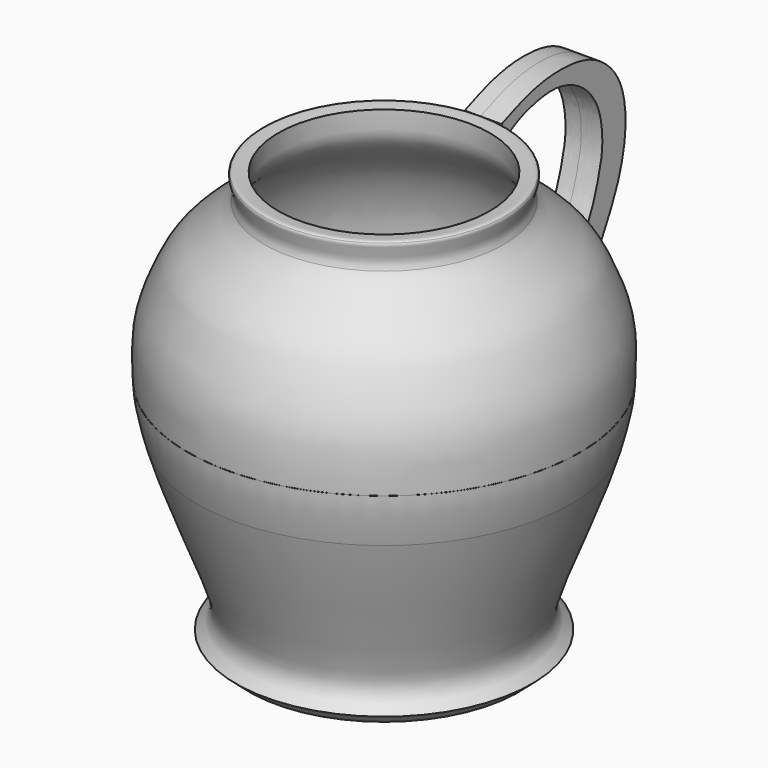
from build123d import *

# Parameters (mm, degrees)
F2_DEPTH      = 10.4
F2_DEPTH_BACK = 7.8


with BuildPart() as f1:
    # F0 (on Right) → F1 (revolve)
    with BuildSketch(Plane.YZ):
        with BuildLine():
            Line((21.0035387427, -78.5015374422), (21.0035387427, -84.5494195819))
            Line((21.0035387427, -84.5494195819), (80.2264660597, -84.5494195819))
            Line((80.2264660597, -84.5494195819), (80.2264660597, -90.012152642))
            Line((80.2264660597, -90.012152642), (87.6965597272, -90.012152642))
            Line((87.6965597272, -90.012152642), (94.082288444, -84.4289362431))
            add(Edge.make_bspline(
                [(94.082288444, -84.4289362431), (92.3738872366, -83.0076980203), (88.9835351958, -80.1872259394), (87.1045959567, -73.5126811581), (90.0131092042, -62.5541332421), (96.2476492207, -47.0073959475), (102.2979406677, -31.0572130313), (107.953769787, -16.7288086893), (111.5604432675, -5.8635248362), (113.2446229458, 0)],
                knots=[0, 0, 0, 0, 0.0379981617, 0.075420174, 0.1249630134, 0.1868680457, 0.2488977672, 0.30745191, 0.3702226859, 0.3702226859, 0.3702226859, 0.3702226859], degree=3))
            add(Edge.make_bspline(
                [(113.2446229458, 0), (114.9033284374, 5.7748356493), (117.212645425, 15.1372170678), (117.8148851259, 21.6430969665), (117.9662718934, 24.0703888431)],
                knots=[0.3702226859, 0.3702226859, 0.3702226859, 0.3702226859, 0.4320440176, 0.4665337581, 0.4665337581, 0.4665337581, 0.4665337581], degree=3))
            add(Edge.make_bspline(
                [(117.9690682879, 24.1153539348), (117.9603680731, 24.0896581148), (117.9631714085, 24.080063716), (117.9662718934, 24.0703888431)],
                knots=[0.9955297408, 0.9955297408, 0.9955297408, 0.9955297408, 1, 1, 1, 1], degree=3))
            add(Edge.make_bspline(
                [(117.9690682879, 24.1153539348), (118.0298730314, 25.0958724695), (118.2804424362, 30.0439409899), (118.7272641145, 41.0847896489), (116.4511449657, 54.4771611951), (110.0055314065, 69.7246057808), (104.2546373672, 79.6448262453), (92.6870466905, 90.1983640908), (84.6358825321, 95.8908917569), (81.104878366, 100.265786402), (80.1873654127, 102.1998003125)],
                knots=[0.4667466766, 0.4667466766, 0.4667466766, 0.4667466766, 0.4806719992, 0.5358659817, 0.5917855739, 0.6518529462, 0.7032103609, 0.7617464682, 0.809488284, 0.8497553004, 0.8497553004, 0.8497553004, 0.8497553004], degree=3))
            add(Edge.make_bspline(
                [(80.1873654127, 102.1998003125), (79.3796441137, 103.9023857884), (78.8174329525, 107.3804000394), (81.5779918846, 113.4314788964), (80.5971100926, 114.5961359143)],
                knots=[0.8497553004, 0.8497553004, 0.8497553004, 0.8497553004, 0.8852038754, 0.9244697332, 0.9244697332, 0.9244697332, 0.9244697332], degree=3))
            add(Edge.make_bspline(
                [(80.5971100926, 114.5961359143), (79.5864107397, 115.7961970268), (75.9939422246, 114.8563985279), (73.2843577862, 114.5961359143)],
                knots=[0.9244697332, 0.9244697332, 0.9244697332, 0.9244697332, 0.9649292232, 0.9649292232, 0.9649292232, 0.9649292232], degree=3))
            add(Edge.make_bspline(
                [(82.515090704, -78.5015374422), (82.163501857, -77.1645000075), (81.3790699561, -74.1814280195), (81.5906530908, -67.4006331631), (84.5185567332, -59.2605208819), (88.70818538, -48.9384919732), (95.4121248716, -32.8980169433), (101.7243507766, -15.2551155999), (109.014058561, 4.2934516881), (112.2321532098, 19.6688466463), (112.416380904, 30.6336732043), (111.5824092223, 45.2341849874), (107.9057424839, 59.3066953152), (101.7693074871, 72.0720531928), (94.5897108488, 81.5917410304), (85.7507044603, 88.5562179254), (77.2173785756, 95.9622408761), (73.0288721391, 103.4471890205), (73.212957295, 110.7111288839), (73.2843577862, 114.5961359143)],
                knots=[0, 0, 0, 0, 0.0353365888, 0.0788407953, 0.1283615695, 0.184994781, 0.2554668977, 0.3299665545, 0.4078796822, 0.4744615379, 0.5302767487, 0.5945903822, 0.6597985892, 0.7234091458, 0.7815571193, 0.8386511187, 0.8952321897, 0.9436865705, 1, 1, 1, 1], degree=3))
            Line((82.515090704, -78.5015374422), (21.0035387427, -78.5015374422))
        make_face()
    revolve(axis=Axis((0, 21.0035387427, 12.487847358), (0, 0, 1)))


with BuildPart() as f2:
    # F0 (on Right) → F2 (new body, two sides)
    with BuildSketch(Plane.YZ) as f2_sk:
        with BuildLine():
            add(Edge.make_bspline(
                [(113.2446229458, 0), (114.7506014429, 2.1897993659), (118.2400935902, 7.2476439439), (128.5094813431, 18.4617054072), (140.5972188595, 34.5300252895), (151.3988202679, 56.3616259867), (154.6204519647, 66.0718702645), (157.0888606341, 76.5659898364), (157.6346150399, 90.3196979879), (153.8342714541, 106.834876278), (138.3937617766, 121.5484903543), (116.9299047736, 124.3161256128), (98.5668402606, 121.7547471985), (86.0301816325, 116.8197984195), (80.5971100926, 114.5961359143)],
                knots=[0, 0, 0, 0, 0.0604918091, 0.1402856542, 0.2359622497, 0.3379077691, 0.4041214418, 0.4705912076, 0.5473712416, 0.6317046276, 0.724664769, 0.8196007437, 0.9095206123, 1, 1, 1, 1], degree=3))
            add(Edge.make_bspline(
                [(80.1873654127, 102.1998003125), (79.3796441137, 103.9023857884), (78.8174329525, 107.3804000394), (81.5779918846, 113.4314788964), (80.5971100926, 114.5961359143)],
                knots=[0.8497553004, 0.8497553004, 0.8497553004, 0.8497553004, 0.8852038754, 0.9244697332, 0.9244697332, 0.9244697332, 0.9244697332], degree=3))
            add(Edge.make_bspline(
                [(80.1873654127, 102.1998003125), (79.735356321, 103.917975547), (79.1712253967, 105.391554634), (88.6290649127, 111.0460970051), (94.9456435351, 113.824319383), (107.4488172259, 116.9622020073), (118.5176109969, 116.5182681696), (129.4621188424, 111.8194729744), (137.2939273423, 103.8835514798), (142.2912686434, 93.7130164507), (143.5028914913, 78.6273489957), (140.6916507591, 67.6675633212), (137.9989486883, 58.3390625774), (132.9251140697, 47.0020606572), (126.0612237215, 36.4050664237), (121.4538975578, 29.4823069737), (118.0638196504, 24.3951992048), (117.9690682879, 24.1153539348)],
                knots=[0, 0, 0, 0, 0.0368603038, 0.1017072367, 0.1605781086, 0.2345510461, 0.3051534929, 0.3765971135, 0.4458310855, 0.5162925273, 0.5975644121, 0.6682187025, 0.7333015416, 0.8076687737, 0.8824209267, 0.9468455229, 0.9955297408, 0.9955297408, 0.9955297408, 0.9955297408], degree=3))
            add(Edge.make_bspline(
                [(117.9662718934, 24.0703888431), (117.9672064626, 24.0853734553), (117.9681385819, 24.1003617829), (117.9690682879, 24.1153539348)],
                knots=[0.4665337581, 0.4665337581, 0.4665337581, 0.4665337581, 0.4667466766, 0.4667466766, 0.4667466766, 0.4667466766], degree=3))
            add(Edge.make_bspline(
                [(113.2446229458, 0), (114.9033284374, 5.7748356493), (117.212645425, 15.1372170678), (117.8148851259, 21.6430969665), (117.9662718934, 24.0703888431)],
                knots=[0.3702226859, 0.3702226859, 0.3702226859, 0.3702226859, 0.4320440176, 0.4665337581, 0.4665337581, 0.4665337581, 0.4665337581], degree=3))
        make_face()
    extrude(amount=F2_DEPTH)
    extrude(f2_sk.sketch, amount=-F2_DEPTH_BACK)


solid = Compound([f1.part, f2.part])
